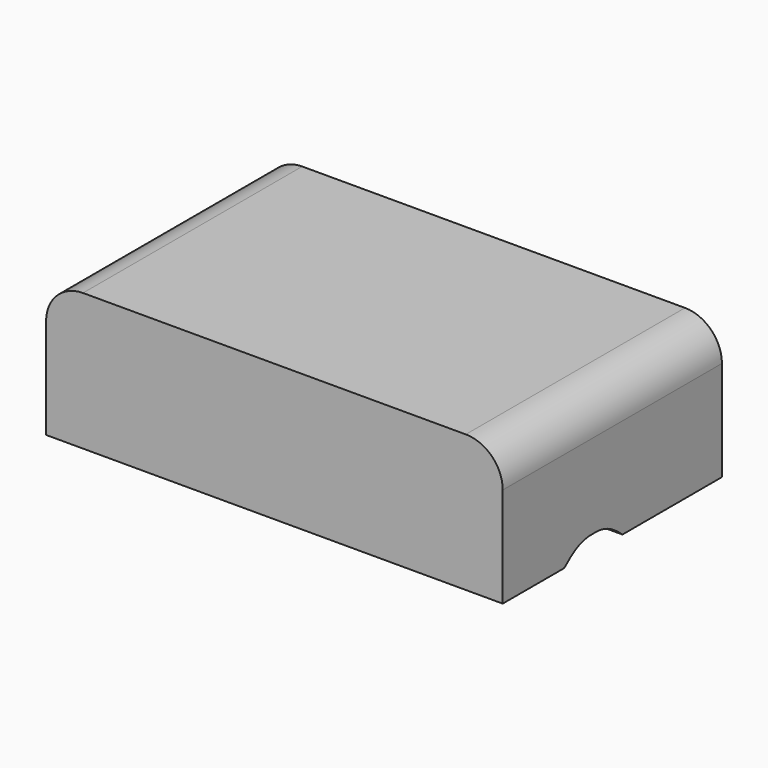
from build123d import *

# Parameters (mm, degrees)
F0_W     = 20
F0_H     = 12
F1_DEPTH = 6
F2_R     = 1.6175230868
F4_DEPTH = 0.3
F5_W     = 9.6640973352
F5_H     = 2.0774973091
F6_DEPTH = 0.1
F8_DEPTH = 25


with BuildPart() as f1:
    # F0 (on Top) → F1 (new body)
    with BuildSketch(Plane.XY):
        Rectangle(F0_W, F0_H)
    extrude(amount=F1_DEPTH)

    # F2
    f2_edges = [f1.edges().sort_by_distance(p)[0] for p in [
        (10, 0, 6),
        (-10, 0, 6),
    ]]
    fillet(f2_edges, radius=F2_R)

    # F3 (on face) → F4 (join)
    with BuildSketch(Plane(origin=(0, 6, 0), x_dir=(-1, 0, 0), z_dir=(0, 1, 0))):
        with BuildLine():
            add(Edge.make_bspline(
                [(-5.9889552958, 4.3307738066), (-6.7707574457, 5.2428768765), (-7.1497281936, 4.126935614), (-7.5286989414, 3.0109943515), (-6.3679260436, 3.2148325442), (-5.2071531458, 3.4186707368), (-5.9889552958, 4.3307738066)],
                knots=[4.7123889804, 4.7123889804, 4.7123889804, 6.8067840828, 6.8067840828, 8.9011791852, 8.9011791852, 10.9955742876, 10.9955742876, 10.9955742876], degree=2, weights=[1, 0.5, 1, 0.5, 1, 0.5, 1]))
        make_face()
        Polygon((-7.1114664897, 3.8173154462), (-6.1345444992, 4.4055692852), (-6.2445141857, 3.376125358), align=None, mode=Mode.SUBTRACT)
        with BuildLine():
            add(Edge.make_bspline(
                [(5.9889552958, 4.3307738066), (5.2071531458, 3.4186707368), (6.3679260436, 3.2148325442), (7.5286989414, 3.0109943515), (7.1497281936, 4.126935614), (6.7707574457, 5.2428768765), (5.9889552958, 4.3307738066)],
                knots=[4.7123889804, 4.7123889804, 4.7123889804, 6.8067840828, 6.8067840828, 8.9011791852, 8.9011791852, 10.9955742876, 10.9955742876, 10.9955742876], degree=2, weights=[1, 0.5, 1, 0.5, 1, 0.5, 1]))
        make_face()
        Polygon((6.1345444992, 4.4055692852), (7.1114664897, 3.8173154462), (6.2445141857, 3.376125358), align=None, mode=Mode.SUBTRACT)
    extrude(amount=F4_DEPTH)

    # F5 (on face) → F6 (join)
    with BuildSketch(Plane(origin=(0, 6, 0), x_dir=(-1, 0, 0), z_dir=(0, 1, 0))):
        with Locations((-0.4735698458, 1.9353075186)):
            Rectangle(F5_W, F5_H)
        Polygon((-5.069738923, 1.1018711375), (-5.069738923, 2.8125192574), (-4.8855133355, 2.8125192574), (-3.3977353226, 2.8125192574), (-3.2135097351, 2.8125192574), (-1.7257317222, 2.8125192574), (-1.5415061347, 2.8125192574), (-0.0537281219, 2.8125192574), (0.1304974656, 2.8125192574), (1.6182754785, 2.8125192574), (1.802501066, 2.8125192574), (3.2902790789, 2.8125192574), (3.4745046664, 2.8125192574), (4.1262808791, 2.8125192574), (4.1262808791, 1.4788382144), (4.1262808791, 1.1018711375), (2.6385028662, 1.1018711375), (2.4542772787, 1.1018711375), (0.9664992658, 1.1018711375), (0.7822736783, 1.1018711375), (-0.7055043345, 1.1018711375), (-0.889729922, 1.1018711375), (-2.3775079349, 1.1018711375), (-2.5617335224, 1.1018711375), (-4.0495115353, 1.1018711375), (-4.2337371228, 1.1018711375), align=None, mode=Mode.SUBTRACT)
        Polygon((-4.8855133355, 2.8125192574), (-5.069738923, 2.8125192574), (-4.2337371228, 1.1018711375), (-4.141624329, 1.2903546759), align=None)
        Polygon((-3.3056225288, 2.624035719), (-3.3977353226, 2.8125192574), (-4.141624329, 1.2903546759), (-4.0495115353, 1.1018711375), align=None)
        Polygon((-2.4696207287, 1.2903546759), (-3.2135097351, 2.8125192574), (-3.3056225288, 2.624035719), (-2.5617335224, 1.1018711375), align=None)
        Polygon((-1.6336189285, 2.624035719), (-1.7257317222, 2.8125192574), (-2.4696207287, 1.2903546759), (-2.3775079349, 1.1018711375), align=None)
        Polygon((-0.7976171283, 1.2903546759), (-1.5415061347, 2.8125192574), (-1.6336189285, 2.624035719), (-0.889729922, 1.1018711375), align=None)
        Polygon((0.0383846719, 2.624035719), (-0.0537281219, 2.8125192574), (-0.7976171283, 1.2903546759), (-0.7055043345, 1.1018711375), align=None)
        Polygon((0.8743864721, 1.2903546759), (0.1304974656, 2.8125192574), (0.0383846719, 2.624035719), (0.7822736783, 1.1018711375), align=None)
        Polygon((1.7103882723, 2.624035719), (1.6182754785, 2.8125192574), (0.8743864721, 1.2903546759), (0.9664992658, 1.1018711375), align=None)
        Polygon((2.5463900724, 1.2903546759), (1.802501066, 2.8125192574), (1.7103882723, 2.624035719), (2.4542772787, 1.1018711375), align=None)
        Polygon((3.3823918726, 2.624035719), (3.2902790789, 2.8125192574), (2.5463900724, 1.2903546759), (2.6385028662, 1.1018711375), align=None)
        Polygon((4.1262808791, 1.4788382144), (3.4745046664, 2.8125192574), (3.3823918726, 2.624035719), (4.1262808791, 1.1018711375), align=None)
        Polygon((-4.141624329, 1.2903546759), (-4.2337371228, 1.1018711375), (-4.0495115353, 1.1018711375), align=None)
        Polygon((-3.2135097351, 2.8125192574), (-3.3977353226, 2.8125192574), (-3.3056225288, 2.624035719), align=None)
        Polygon((-2.4696207287, 1.2903546759), (-2.5617335224, 1.1018711375), (-2.3775079349, 1.1018711375), align=None)
        Polygon((-1.5415061347, 2.8125192574), (-1.7257317222, 2.8125192574), (-1.6336189285, 2.624035719), align=None)
        Polygon((-0.7976171283, 1.2903546759), (-0.889729922, 1.1018711375), (-0.7055043345, 1.1018711375), align=None)
        Polygon((0.1304974656, 2.8125192574), (-0.0537281219, 2.8125192574), (0.0383846719, 2.624035719), align=None)
        Polygon((0.8743864721, 1.2903546759), (0.7822736783, 1.1018711375), (0.9664992658, 1.1018711375), align=None)
        Polygon((1.802501066, 2.8125192574), (1.6182754785, 2.8125192574), (1.7103882723, 2.624035719), align=None)
        Polygon((2.5463900724, 1.2903546759), (2.4542772787, 1.1018711375), (2.6385028662, 1.1018711375), align=None)
        Polygon((3.4745046664, 2.8125192574), (3.2902790789, 2.8125192574), (3.3823918726, 2.624035719), align=None)
    extrude(amount=F6_DEPTH)

    # F7 (on face) → F8 (cut)
    with BuildSketch(Plane.YZ.offset(10)):
        with BuildLine():
            add(Edge.make_bspline(
                [(-2.6326957159, 0), (-1.952913386, 0.6265651125), (-1.0674622337, 0.7346938286), (-0.1766542916, 0.661617056), (0.5543848965, 0)],
                knots=[0, 0, 0, 0, 0.4953425033, 1, 1, 1, 1], degree=3))
            Line((-2.6326957159, 0), (0.5543848965, 0))
        make_face()
    extrude(amount=-F8_DEPTH, mode=Mode.SUBTRACT)


solid = f1.part
